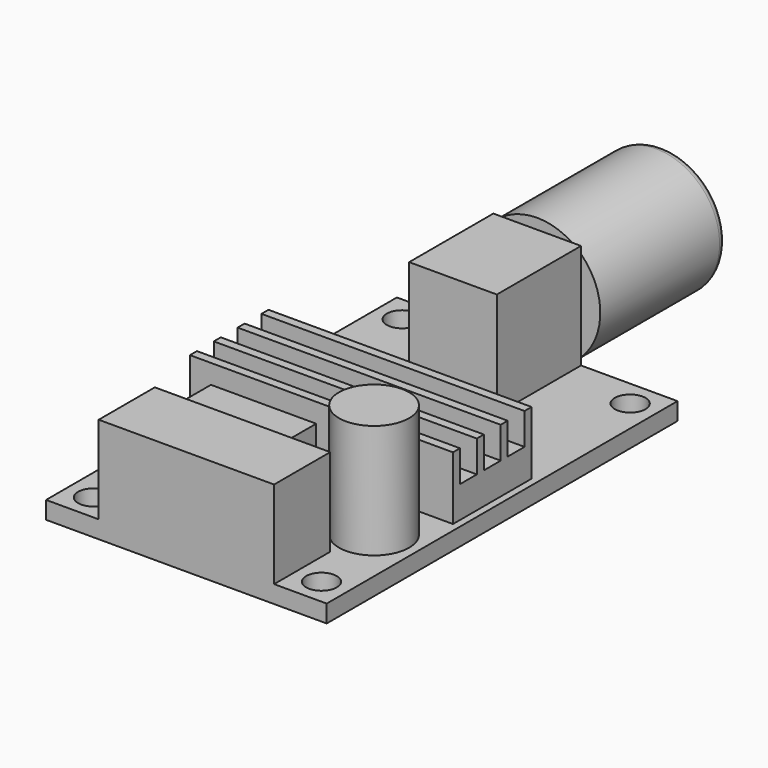
from build123d import *

# Parameters (mm, degrees)
SKETCH_W     = 32
SKETCH_H     = 50
SKETCH_R     = 1.75
PAD_DEPTH    = 2
SKETCH001_W  = 10
SKETCH001_H  = 12
PAD001_DEPTH = 12
SKETCH002_W  = 20
SKETCH002_H  = 8
PAD002_DEPTH = 10
SKETCH003_R  = 4
PAD003_DEPTH = 13
SKETCH004_W  = 12
SKETCH004_H  = 6
PAD004_DEPTH = 7
SKETCH005_W  = 30
SKETCH005_H  = 11.2
PAD005_DEPTH = 7.2
SKETCH006_W  = 30
SKETCH006_H  = 2.4
POCKET_DEPTH = 3.6
SKETCH007_R  = 7.2
PAD006_DEPTH = 18
FILLET_R     = 1


with BuildPart() as part:
    # Sketch → Pad (new body)
    with BuildSketch(Plane.XY):
        with Locations((16, 25)):
            Rectangle(SKETCH_W, SKETCH_H)
        with Locations((3, 47)):
            Circle(SKETCH_R, mode=Mode.SUBTRACT)
        with Locations((29, 47)):
            Circle(SKETCH_R, mode=Mode.SUBTRACT)
        with Locations((3, 3)):
            Circle(SKETCH_R, mode=Mode.SUBTRACT)
        with Locations((29, 3)):
            Circle(SKETCH_R, mode=Mode.SUBTRACT)
    extrude(amount=PAD_DEPTH)

    # Sketch001 (on Face10 of Pad) → Pad001 (join)
    with BuildSketch(Plane.XY.offset(2)):
        with Locations((16, 44)):
            Rectangle(SKETCH001_W, SKETCH001_H)
    extrude(amount=PAD001_DEPTH)

    # Sketch002 (on Face5 of Pad001) → Pad002 (join)
    with BuildSketch(Plane.XY.offset(2)):
        with Locations((16, 4)):
            Rectangle(SKETCH002_W, SKETCH002_H)
    extrude(amount=PAD002_DEPTH)

    # Sketch003 (on Face5 of Pad002) → Pad003 (join)
    with BuildSketch(Plane.XY.offset(2)):
        with Locations((27, 13)):
            Circle(SKETCH003_R)
    extrude(amount=PAD003_DEPTH)

    # Sketch004 (on Face5 of Pad003) → Pad004 (join)
    with BuildSketch(Plane.XY.offset(2)):
        with Locations((12, 13)):
            Rectangle(SKETCH004_W, SKETCH004_H)
    extrude(amount=PAD004_DEPTH)

    # Sketch005 (on Face5 of Pad004) → Pad005 (join)
    with BuildSketch(Plane.XY.offset(2)):
        with Locations((16.2, 24.6)):
            Rectangle(SKETCH005_W, SKETCH005_H)
    extrude(amount=PAD005_DEPTH)

    # Sketch006 (on Face32 of Pad005) → Pocket (cut)
    with BuildSketch(Plane.XY.offset(9.2)):
        with Locations((16.2, 21.2)):
            Rectangle(SKETCH006_W, SKETCH006_H)
        with Locations((16.2, 24.6)):
            Rectangle(SKETCH006_W, SKETCH006_H)
        with Locations((16.2, 28)):
            Rectangle(SKETCH006_W, SKETCH006_H)
    extrude(amount=-POCKET_DEPTH, mode=Mode.SUBTRACT)

    # Sketch007 (on Face6 of Pocket) → Pad006 (join)
    with BuildSketch(Plane(origin=(0, 50, 0), x_dir=(-1, 0, 0), z_dir=(0, 1, 0))):
        with Locations((-16, 8)):
            Circle(SKETCH007_R)
    extrude(amount=PAD006_DEPTH)

    # Fillet
    fillet_edges = [part.edges().sort_by_distance(p)[0] for p in [
        (23.2, 68, 8),
    ]]
    fillet(fillet_edges, radius=FILLET_R)


solid = part.part
